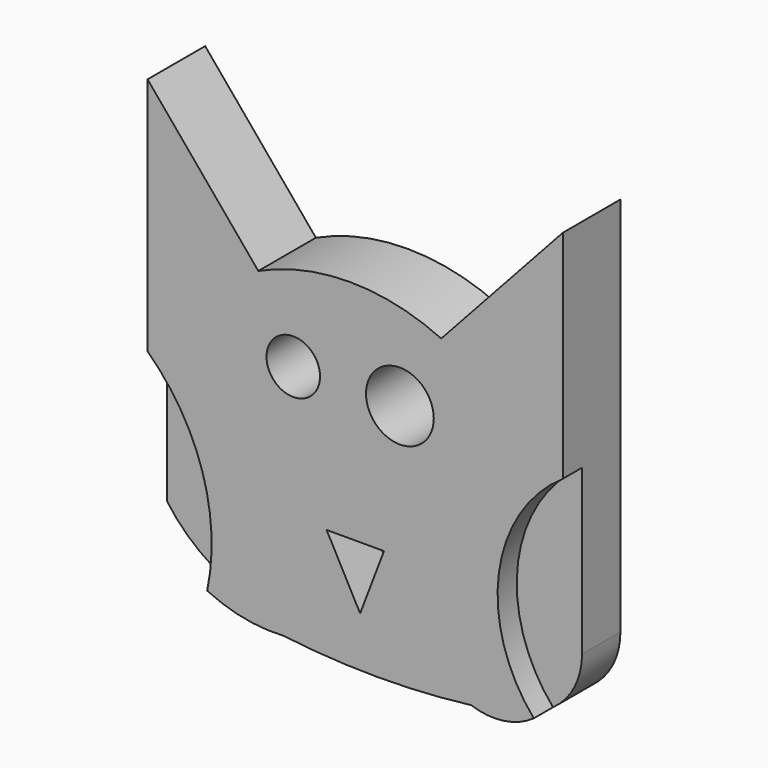
from build123d import *

# Parameters (mm, degrees)
F0_R     = 1.115605
F0_R_2   = 1.412634
F1_DEPTH = 3
F2_DEPTH = 2
F3_DEPTH = 1


with BuildPart() as f1:
    # F0 (on Front) → F1 (new body)
    with BuildSketch(Plane.XZ):
        with BuildLine():
            Line((-18.974544, 5.53028), (-18.974544, 3.961724))
            Line((-18.974544, 3.961724), (-18.974544, -4.449865))
            ThreePointArc((-18.974544, -4.449865), (-16.691878, -8.113439), (-16.490631, -12.425264))
            ThreePointArc((-16.490631, -12.425264), (-14.938687, -12.937181), (-13.308015, -13.044414))
            ThreePointArc((-13.308015, -13.044414), (-9.397709, -13.283603), (-5.487403, -13.044414))
            ThreePointArc((-5.487403, -13.044414), (-4.138982, -13.179799), (-2.879113, -12.680498))
            ThreePointArc((-2.879113, -12.680498), (-4.33521, -7.817834), (-1.669094, -3.498396))
            Line((-1.669094, -3.498396), (-1.669094, 5.53028))
            Line((-1.669094, 5.53028), (-6.735639, 0))
            ThreePointArc((-6.735639, 0), (-10.548048, 0.838268), (-14.360456, 0))
            Line((-14.360456, 0), (-18.974544, 5.53028))
        make_face()
        Polygon((-10.116423, -11.184998), (-11.513611, -8.5759), (-9.122775, -8.573417), align=None, mode=Mode.SUBTRACT)
        with Locations((-12.903409, -3.036485)):
            Circle(F0_R, mode=Mode.SUBTRACT)
        with Locations((-8.460215, -3.036485)):
            Circle(F0_R_2, mode=Mode.SUBTRACT)
    extrude(amount=F1_DEPTH)

    # F0 (on Front) → F2 (join)
    with BuildSketch(Plane.XZ):
        with BuildLine():
            ThreePointArc((-16.490631, -12.425264), (-16.691878, -8.113439), (-18.974544, -4.449865))
            Line((-18.974544, -4.449865), (-18.974544, -10.341382))
            ThreePointArc((-18.974544, -10.341382), (-17.865075, -11.541243), (-16.490631, -12.425264))
        make_face()
        with BuildLine():
            ThreePointArc((-1.669094, -3.498396), (-4.33521, -7.817834), (-2.879113, -12.680498))
            ThreePointArc((-2.879113, -12.680498), (-1.989511, -11.658159), (-1.669094, -10.341382))
            Line((-1.669094, -10.341382), (-1.669094, -3.498396))
        make_face()
    extrude(amount=F2_DEPTH)

    # F0 (on Front) → F3 (join)
    with BuildSketch(Plane.XZ):
        Polygon((-9.122775, -8.573417), (-11.513611, -8.5759), (-10.116423, -11.184998), align=None)
    extrude(amount=F3_DEPTH)


solid = f1.part
